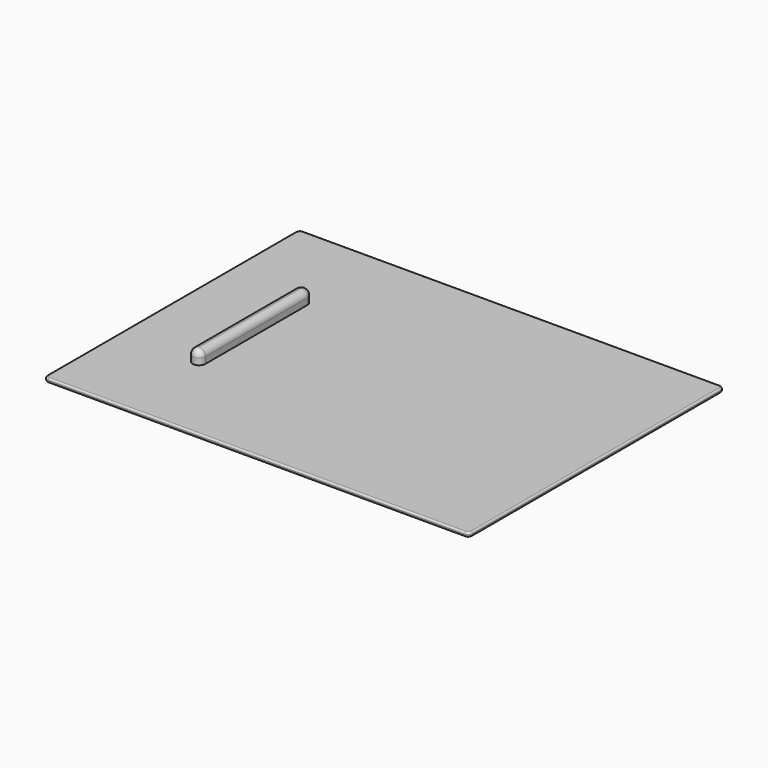
from build123d import *

# Parameters (mm, degrees)
SKETCH003_W  = 100
SKETCH003_H  = 75
PAD002_DEPTH = 1
PAD003_DEPTH = 3
FILLET002_R  = 1.5
FILLET003_R  = 1
FILLET004_R  = 0.4


with BuildPart() as part:
    # Sketch003 → Pad002 (new body)
    with BuildSketch(Plane.XY):
        Rectangle(SKETCH003_W, SKETCH003_H)
    extrude(amount=PAD002_DEPTH)

    # Sketch004 (on Face6 of Pad002) → Pad003 (join)
    with BuildSketch(Plane.XY.offset(1)):
        with BuildLine():
            ThreePointArc((-30, 15), (-31.5, 16.5), (-33, 15))
            Line((-33, 15), (-33, -15))
            ThreePointArc((-33, -15), (-31.5, -16.5), (-30, -15))
            Line((-30, -15), (-30, 15))
        make_face()
    extrude(amount=PAD003_DEPTH)

    # Fillet002
    fillet002_edges = [part.edges().sort_by_distance(p)[0] for p in [
        (-33, 0, 4),
    ]]
    fillet(fillet002_edges, radius=FILLET002_R)

    # Fillet003
    fillet003_edges = [part.edges().sort_by_distance(p)[0] for p in [
        (-50, -37.5, 0.5),
        (-50, 37.5, 0.5),
        (50, -37.5, 0.5),
        (50, 37.5, 0.5),
    ]]
    fillet(fillet003_edges, radius=FILLET003_R)

    # Fillet004
    fillet004_edges = [part.edges().sort_by_distance(p)[0] for p in [
        (0, -37.5, 1),
        (0, -37.5, 0),
    ]]
    fillet(fillet004_edges, radius=FILLET004_R)


with BuildPart() as part_1:
    # Body001 placement: moved
    add(part.part.moved(Location((0, 0, 36))))


solid = part_1.part
